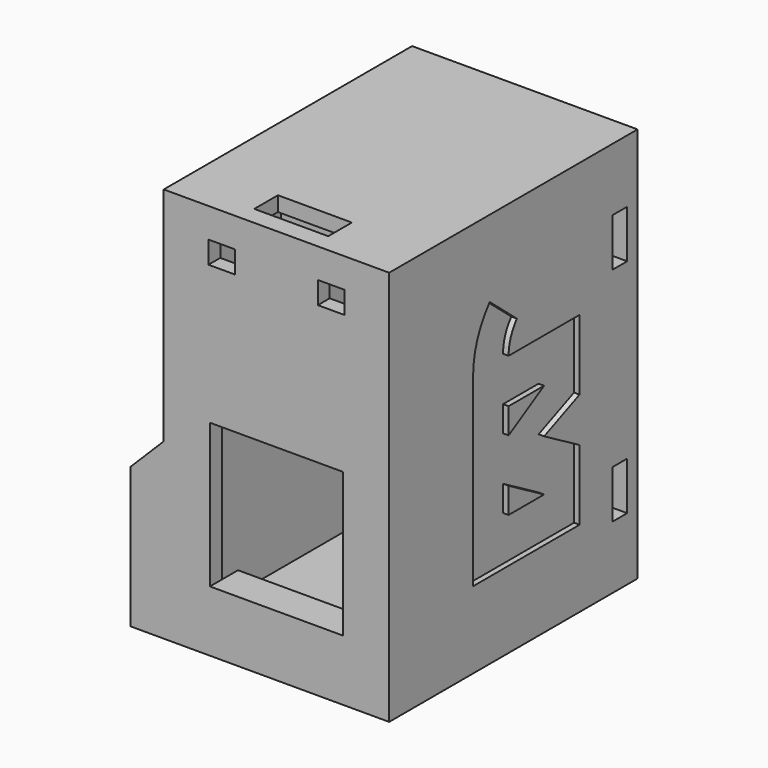
from build123d import *

# Parameters (mm, degrees)
SKETCH002_W     = 53.5
SKETCH002_H     = 30.5
SKETCH002_W_2   = 19.5
SKETCH002_H_2   = 18
SKETCH002_W_3   = 3
SKETCH002_H_3   = 3.6
PAD001_DEPTH    = 2
SKETCH003_W     = 2
SKETCH003_H     = 11.25
SKETCH003_H_2   = 18
PAD002_DEPTH    = 1.5
SKETCH004_W     = 5.75
SKETCH004_H     = 18
PAD003_DEPTH    = 2.75
SKETCH005_W     = 53.5
SKETCH005_H     = 30.5
SKETCH005_W_2   = 49.5
SKETCH005_H_2   = 26.5
PAD004_DEPTH    = 40
SKETCH006_W     = 10
SKETCH006_H     = 4
POCKET001_DEPTH = 2
SKETCH008_W     = 6.5
SKETCH008_H     = 2.5
POCKET002_DEPTH = 5
SKETCH010_W     = 5.75
SKETCH010_H     = 2.15
POCKET003_DEPTH = 5
POCKET005_DEPTH = 0.75
SKETCH014_W     = 10
SKETCH014_H     = 2
PAD009_DEPTH    = 1
PAD010_DEPTH    = 42
POCKET006_DEPTH = 40


with BuildPart() as part:
    # Sketch002 → Pad001 (new body)
    with BuildSketch(Plane(origin=(0, -7.25, 0), x_dir=(0, 0, -1), z_dir=(0, -1, 0))):
        Rectangle(SKETCH002_W, SKETCH002_H)
        with Locations((8.75, 0)):
            Rectangle(SKETCH002_W_2, SKETCH002_H_2, mode=Mode.SUBTRACT)
        with Locations((-21.25, 7.4)):
            Rectangle(SKETCH002_W_3, SKETCH002_H_3, mode=Mode.SUBTRACT)
        with Locations((-21.25, -7.4)):
            Rectangle(SKETCH002_W_3, SKETCH002_H_3, mode=Mode.SUBTRACT)
    extrude(amount=-PAD001_DEPTH)

    # Sketch003 (on Face18 of Pad001) → Pad002 (join)
    with BuildSketch(Plane(origin=(0, -5.25, 0), x_dir=(0, 0, -1), z_dir=(0, 1, 0))):
        with Locations((-13.15, 0)):
            Rectangle(SKETCH003_W, SKETCH003_H)
        with Locations((-8.9, 0)):
            Rectangle(SKETCH003_W, SKETCH003_H_2)
    extrude(amount=PAD002_DEPTH)

    # Sketch004 (on Face5 of Pad002) → Pad003 (join)
    with BuildSketch(Plane(origin=(0, -5.25, 0), x_dir=(0, 0, -1), z_dir=(0, 1, 0))):
        with Locations((21.375, 0)):
            Rectangle(SKETCH004_W, SKETCH004_H)
    extrude(amount=PAD003_DEPTH)

    # Sketch005 (on Face5 of Pad003) → Pad004 (join)
    with BuildSketch(Plane(origin=(0, -5.25, 0), x_dir=(0, 0, -1), z_dir=(0, 1, 0))):
        Rectangle(SKETCH005_W, SKETCH005_H)
        Rectangle(SKETCH005_W_2, SKETCH005_H_2, mode=Mode.SUBTRACT)
    extrude(amount=PAD004_DEPTH)

    # Sketch006 (on Face34 of Pad004) → Pocket001 (cut)
    with BuildSketch(Plane(origin=(0, -7.25, 26.75), x_dir=(-1, 0, 0), z_dir=(0, 0, 1))):
        with Locations((0, -4.5)):
            Rectangle(SKETCH006_W, SKETCH006_H)
    extrude(amount=-POCKET001_DEPTH, mode=Mode.SUBTRACT)

    # Sketch008 (on Face5 of Pocket001) → Pocket002 (cut)
    with BuildSketch(Plane(origin=(15.25, -7.25, 0), x_dir=(0, 0, 1), z_dir=(1, 0, 0))):
        with Locations((-15, -39)):
            Rectangle(SKETCH008_W, SKETCH008_H)
        with Locations((15, -39)):
            Rectangle(SKETCH008_W, SKETCH008_H)
    extrude(amount=-POCKET002_DEPTH, mode=Mode.SUBTRACT)

    # Sketch010 (on Face3 of Pocket002) → Pocket003 (cut)
    with BuildSketch(Plane(origin=(-15.25, -7.25, 0), x_dir=(0, 0, -1), z_dir=(-1, 0, 0))):
        with Locations((0, -40.925)):
            Rectangle(SKETCH010_W, SKETCH010_H)
    extrude(amount=-POCKET003_DEPTH, mode=Mode.SUBTRACT)

    # Sketch013 (on Face5 of Pocket003) → Pocket005 (cut)
    with BuildSketch(Plane(origin=(15.25, 9.75, -3), x_dir=(0, 0, -1), z_dir=(1, 0, 0))):
        with BuildLine():
            Line((-11.643274, 3.192533), (-11.643274, 15.192533))
            Line((-11.643274, 15.192533), (-2.143274, 15.192533))
            Line((-2.143274, 15.192533), (0.389061, 9.211163))
            Line((0.389061, 9.211163), (3.856726, 15.192533))
            Line((3.856726, 15.192533), (13.356726, 15.192533))
            Line((13.356726, 15.192533), (13.356726, -2.807467))
            Line((13.356726, -2.807467), (-11.643274, -2.807467))
            ThreePointArc((-19.356726, 0), (-15.747516, -2.083778), (-11.643274, -2.807467))
            Line((-19.356726, 0), (-15.5, 4.596267))
            ThreePointArc((-15.5, 4.596267), (-13.695395, 3.554378), (-11.643274, 3.192533))
        make_face()
        Polygon((-5.643274, 9.192533), (-5.643274, 3.192533), (-2.164809, 3.192533), align=None, mode=Mode.SUBTRACT)
        Polygon((7.313657, 9.192533), (7.313657, 3.192533), (3.835191, 3.192533), align=None, mode=Mode.SUBTRACT)
    extrude(amount=-POCKET005_DEPTH, mode=Mode.SUBTRACT)

    # Sketch014 (on Face51 of Pocket005) → Pad009 (join)
    with BuildSketch(Plane(origin=(0, -7.25, 24.75), x_dir=(1, 0, 0), z_dir=(0, 0, -1))):
        with Locations((0, -8)):
            Rectangle(SKETCH014_W, SKETCH014_H)
    extrude(amount=PAD009_DEPTH)

    # Sketch015 (on Face1 of Pad009) → Pad010 (join)
    with BuildSketch(Plane(origin=(0, -7.25, 0), x_dir=(0, 0, -1), z_dir=(0, -1, 0))):
        Polygon((26.75, -15.25), (3.25, -15.25), (7.75, -19.75), (26.75, -19.75), align=None)
    extrude(amount=-PAD010_DEPTH)

    # Sketch016 (on Face78 of Pad010) → Pocket006 (cut)
    with BuildSketch(Plane(origin=(0, 34.75, 0), x_dir=(0, 0, -1), z_dir=(0, 1, 0))):
        Polygon((26.75, 15.25), (26.75, 17.75), (8.578427, 17.75), (6.078427, 15.25), align=None)
    extrude(amount=-POCKET006_DEPTH, mode=Mode.SUBTRACT)


solid = part.part
